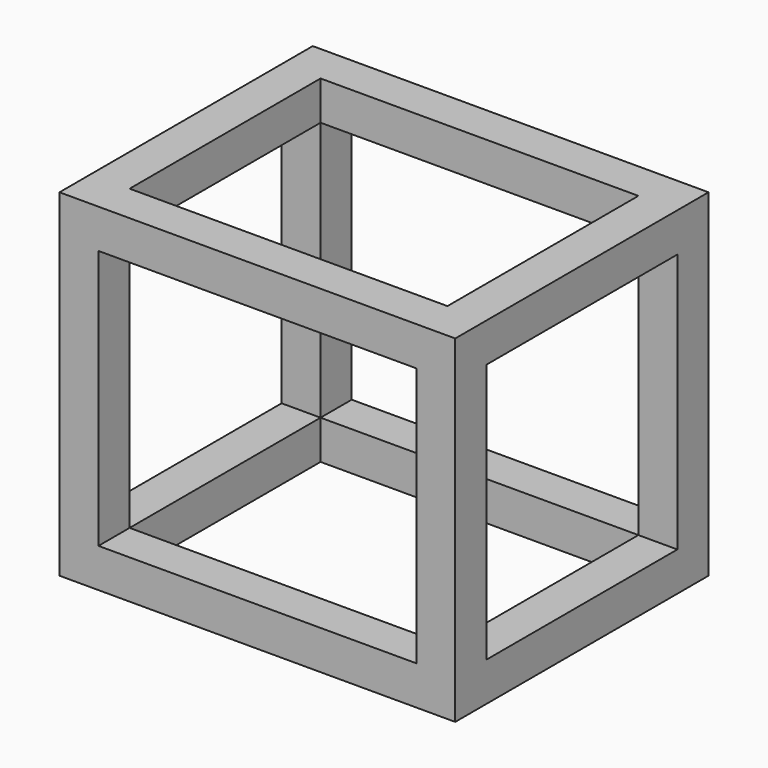
from build123d import *

# Parameters (mm, degrees)
F0_W     = 3048
F0_H     = 2600
F1_DEPTH = 2438.4
F2_W     = 2448
F2_H     = 2000
F3_DEPTH = 3920
F4_W     = 1838.4
F4_H     = 2000
F5_DEPTH = 4630
F6_W     = 2448
F6_H     = 1838.4
F7_DEPTH = 3030
F8_T     = -5


with BuildPart() as f1:
    # F0 (on Front) → F1 (new body)
    with BuildSketch(Plane.XZ):
        with Locations((1524, 1300)):
            Rectangle(F0_W, F0_H)
    extrude(amount=F1_DEPTH)

    # F2 (on face) → F3 (cut)
    with BuildSketch(Plane.XZ.offset(2438.4)):
        with Locations((1524, 1300)):
            Rectangle(F2_W, F2_H)
    extrude(amount=-F3_DEPTH, mode=Mode.SUBTRACT)

    # F4 (on face) → F5 (cut)
    with BuildSketch(Plane.YZ.offset(3048)):
        with Locations((-1219.2, 1300)):
            Rectangle(F4_W, F4_H)
    extrude(amount=-F5_DEPTH, mode=Mode.SUBTRACT)

    # F6 (on face) → F7 (cut)
    with BuildSketch(Plane.XY.offset(2600)):
        with Locations((1524, -1219.2)):
            Rectangle(F6_W, F6_H)
    extrude(amount=-F7_DEPTH, mode=Mode.SUBTRACT)

    # F8
    f8_openings = [f1.faces().sort_by_distance(p)[0] for p in [
        (39.033445, -1219.2, 0),
    ]]
    offset(amount=F8_T, openings=f8_openings, kind=Kind.INTERSECTION)


solid = f1.part
